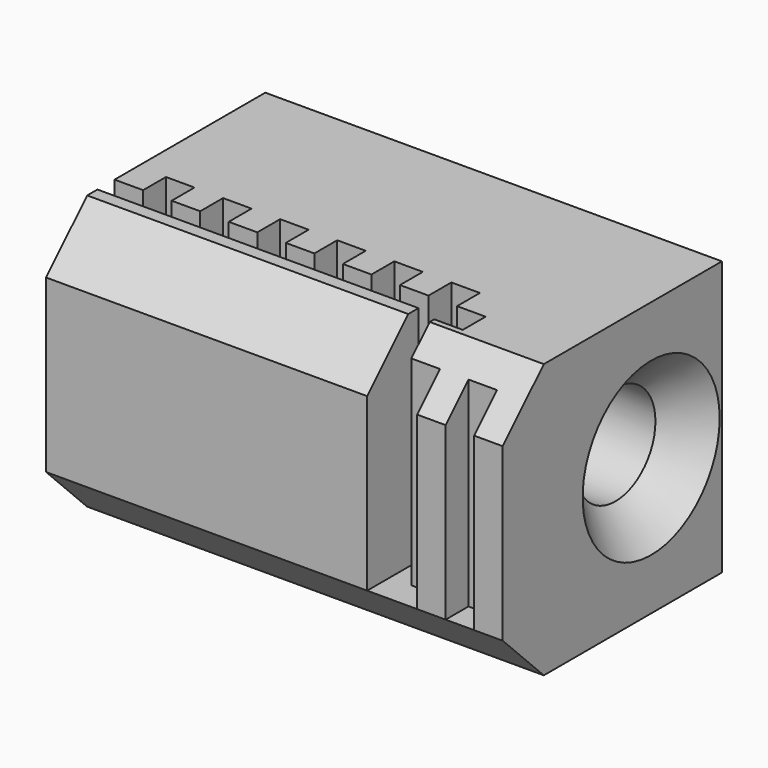
from build123d import *

# Parameters (mm, degrees)
PAD108_DEPTH         = 16
SKETCH512_R          = 1.75
POCKET335_DEPTH      = 12.001
POCKET335_DEPTH_BACK = 4.001
POCKET336_DEPTH      = 7.801
CHAMFER026_SIZE      = 1.25


with BuildPart() as part:
    # Sketch510 → Pad108 (new body)
    with BuildSketch(Plane.YZ):
        Polygon((0, 3), (0, -3), (1.8, -4.8), (9.6, -4.8), (9.6, 4.8), (1.8, 4.8), align=None)
    extrude(amount=-PAD108_DEPTH)

    # Sketch512 → Pocket335 (cut, two sides)
    with BuildSketch(Plane.YZ.offset(-4)) as pocket335_sk:
        with Locations((6.5, 0)):
            Circle(SKETCH512_R)
    extrude(amount=-POCKET335_DEPTH, mode=Mode.SUBTRACT)
    extrude(pocket335_sk.sketch, amount=POCKET335_DEPTH_BACK, mode=Mode.SUBTRACT)

    # Sketch511 → Pocket336 (cut, through all)
    with BuildSketch(Plane.XY.offset(-3)):
        Polygon((0, 0), (-1, 0), (-1, 1), (-2, 1), (-2, 0), (-3, 0), (-3, 1), (-4, 1), (-4, 2), (-3, 2), (-3, 3), (-4, 3), (-4, 4), (-5, 4), (-5, 3), (-6, 3), (-6, 4), (-7, 4), (-7, 3), (-8, 3), (-8, 4), (-9, 4), (-9, 3), (-10, 3), (-10, 4), (-11, 4), (-11, 3), (-12, 3), (-12, 4), (-13, 4), (-13, 3), (-14, 3), (-14, 4), (-15, 4), (-15, 3), (-16, 3), (-16, 2.25), (-4.75, 2.25), (-4.75, -0.75), (0, -0.75), align=None)
    extrude(amount=POCKET336_DEPTH, mode=Mode.SUBTRACT)

    # Chamfer026
    chamfer026_edges = [part.edges().sort_by_distance(p)[0] for p in [
        (0, 4.75, 0),
    ]]
    chamfer(chamfer026_edges, length=CHAMFER026_SIZE)


with BuildPart() as part_1:
    # Body165 placement: moved
    add(part.part.moved(Location((30, 12, 5))))


solid = part_1.part
